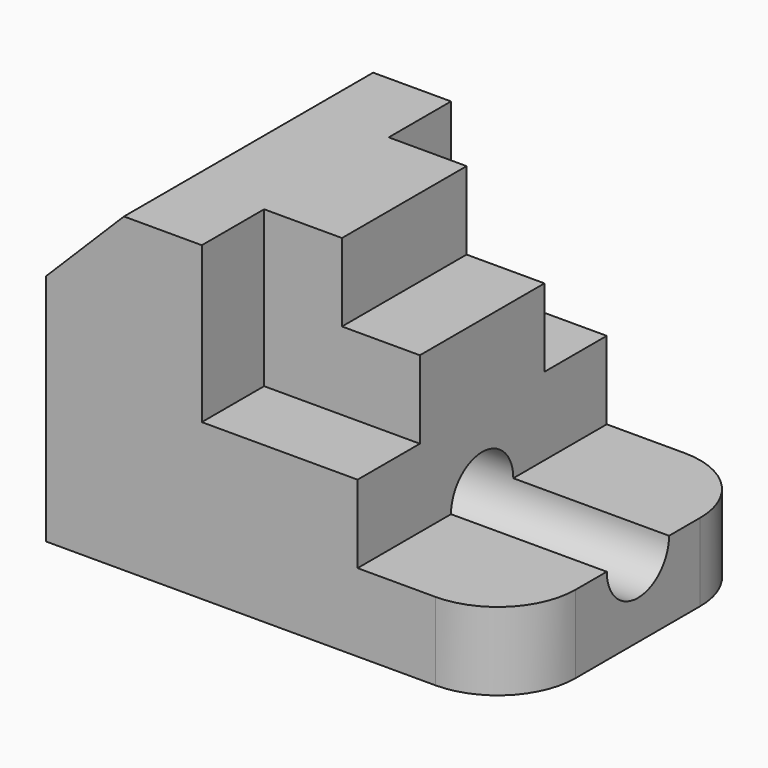
from build123d import *

# Parameters (mm, degrees)
F1_DEPTH = 25.4
F3_DEPTH = 12.7
F5_DEPTH = 12.7
F6_R     = 6.35
F7_DEPTH = 76.201
F8_R     = 12.7


with BuildPart() as f1:
    # F0 (on Front) → F1 (new body, symmetric)
    with BuildSketch(Plane.XZ):
        Polygon((0, 38.1), (0, 0), (76.2, 0), (76.2, 12.7), (50.8, 12.7), (50.8, 38.1), (38.1, 38.1), (38.1, 50.8), (12.7, 50.8), align=None)
    extrude(amount=F1_DEPTH, both=True)

    # F2 (on face) → F3 (cut)
    with BuildSketch(Plane.XZ.offset(25.4)):
        Polygon((38.1, 50.8), (25.4, 50.8), (25.4, 25.4), (50.8, 25.4), (50.8, 38.1), (38.1, 38.1), align=None)
    extrude(amount=-F3_DEPTH, mode=Mode.SUBTRACT)

    # F4 (on face) → F5 (cut)
    with BuildSketch(Plane(origin=(0, 25.4, 0), x_dir=(-1, 0, 0), z_dir=(0, 1, 0))):
        Polygon((-25.4, 50.8), (-38.1, 50.8), (-38.1, 38.1), (-50.8, 38.1), (-50.8, 25.4), (-25.4, 25.4), align=None)
    extrude(amount=-F5_DEPTH, mode=Mode.SUBTRACT)

    # F6 (on face) → F7 (cut, through all)
    with BuildSketch(Plane(origin=(0, 0, 0), x_dir=(0, -1, 0), z_dir=(-1, 0, 0))):
        with Locations((0, 12.7)):
            Circle(F6_R)
    extrude(amount=-F7_DEPTH, mode=Mode.SUBTRACT)

    # F8
    f8_edges = [f1.edges().sort_by_distance(p)[0] for p in [
        (76.2, 25.4, 6.35),
        (76.2, -25.4, 6.35),
    ]]
    fillet(f8_edges, radius=F8_R)


solid = f1.part
